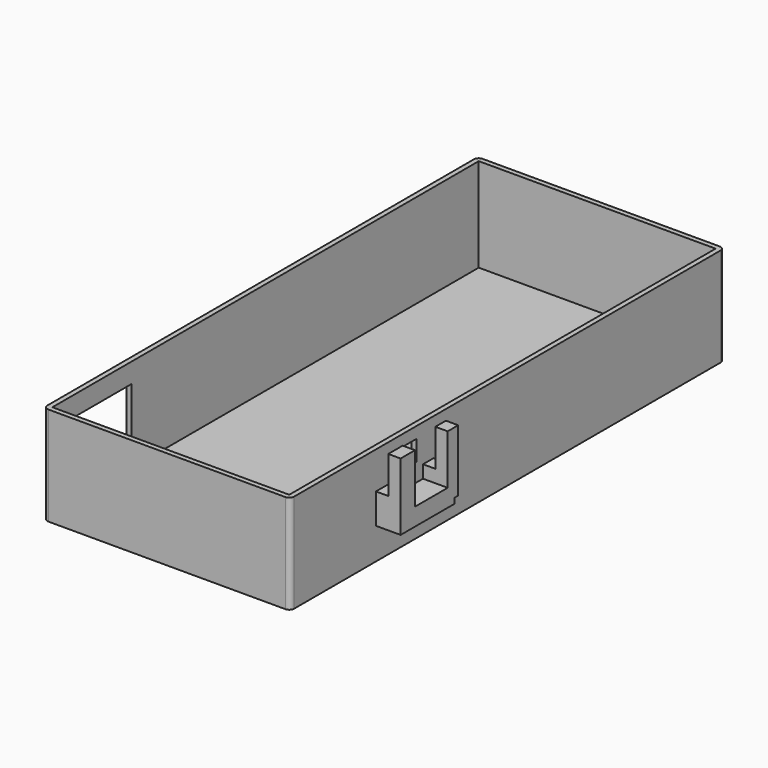
from build123d import *

# Parameters (mm, degrees)
F0_W      = 100
F0_H      = 220
F1_DEPTH  = 40
F2_W      = 96
F2_H      = 216
F3_DEPTH  = 38
F5_R      = 2
F4_W      = 40
F4_H      = 30
F6_DEPTH  = 2
F8_W      = 5.3375530988
F8_H      = 25.0908638909
F9_DEPTH  = 10
F10_W     = 7.2876084596
F10_H     = 27.2723501176
F11_DEPTH = 10
F12_W     = 10
F12_H     = 7.1194600314
F13_DEPTH = 19.9
F14_W     = 9.5573319122
F14_H     = 8.1418789923
F15_DEPTH = 25
F16_W     = 5
F16_H     = 7.2876084596
F16_H_2   = 5.3375530988
F17_DEPTH = 15


with BuildPart() as f1:
    # F0 (on Top) → F1 (new body)
    with BuildSketch(Plane.XY):
        with Locations((-3.3097676933, 33.3972522417)):
            Rectangle(F0_W, F0_H)
    extrude(amount=F1_DEPTH)

    # F2 (on face) → F3 (cut)
    with BuildSketch(Plane.XY.offset(40)):
        with Locations((-3.3097676933, 33.3972522417)):
            Rectangle(F2_W, F2_H)
    extrude(amount=-F3_DEPTH, mode=Mode.SUBTRACT)

    # F5
    f5_edges = [f1.edges().sort_by_distance(p)[0] for p in [
        (-53.309768, -76.602748, 20),
        (46.690232, -76.602748, 20),
        (-53.309768, 143.397252, 20),
        (46.690232, 143.397252, 20),
    ]]
    fillet(f5_edges, radius=F5_R)

    # F4 (on face) → F6 (cut)
    with BuildSketch(Plane(origin=(-53.3097676933, 0, 0), x_dir=(0, -1, 0), z_dir=(-1, 0, 0))):
        with Locations((54.6027477583, 17)):
            Rectangle(F4_W, F4_H)
    extrude(amount=-F6_DEPTH, mode=Mode.SUBTRACT)

    # F8 (on face) → F9 (join)
    with BuildSketch(Plane.YZ.offset(46.6902323067)):
        with Locations((-6.6695250571, 27.4545680545)):
            Rectangle(F8_W, F8_H)
    extrude(amount=F9_DEPTH)

    # F10 (on face) → F11 (join)
    with BuildSketch(Plane.YZ.offset(46.6902323067)):
        with Locations((-29.5446543023, 26.3638249412)):
            Rectangle(F10_W, F10_H)
    extrude(amount=F11_DEPTH)

    # F12 (on face) → F13 (join)
    with BuildSketch(Plane(origin=(0, -25.9008500725, 0), x_dir=(-1, 0, 0), z_dir=(0, 1, 0))):
        with Locations((-51.6902323067, 16.2873798981)):
            Rectangle(F12_W, F12_H)
    extrude(amount=F13_DEPTH)

    # F14 (on face) → F15 (cut)
    with BuildSketch(Plane(origin=(44.6902323067, 0, 0), x_dir=(0, -1, 0), z_dir=(-1, 0, 0))):
        with Locations((17.3811190762, 31.3413348049)):
            Rectangle(F14_W, F14_H)
    extrude(amount=-F15_DEPTH, mode=Mode.SUBTRACT)

    # F16 (on face) → F17 (cut)
    with BuildSketch(Plane.XY.offset(40)):
        with Locations((49.1902323067, -29.5446543023)):
            Rectangle(F16_W, F16_H)
        with Locations((49.1902323067, -6.6695250571)):
            Rectangle(F16_W, F16_H_2)
    extrude(amount=-F17_DEPTH, mode=Mode.SUBTRACT)


solid = f1.part
